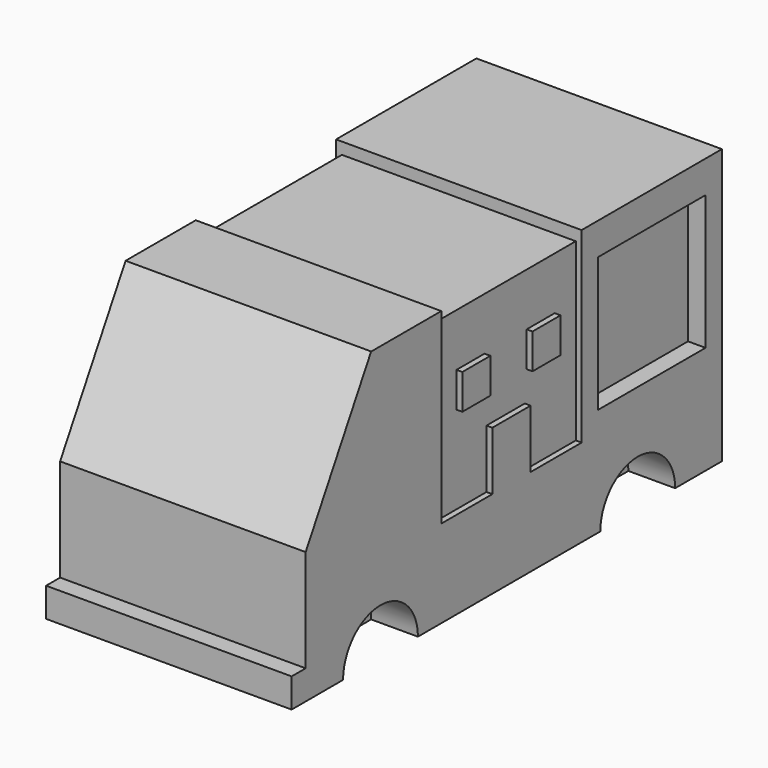
from build123d import *

# Parameters (mm, degrees)
F0_W      = 30
F0_H      = 45
F1_DEPTH  = 20
F2_W      = 6
F2_H      = 6
F3_DEPTH  = 1
F5_DEPTH  = 1
F6_W      = 1
F6_H      = 30
F7_DEPTH  = 30
F8_W      = 23
F8_H      = 23
F9_DEPTH  = 3
F10_W     = 23
F10_H     = 23
F11_DEPTH = 3
F12_W     = 42
F12_H     = 30
F13_DEPTH = 2
F14_R     = 8
F15_DEPTH = 8
F17_DEPTH = 15
F18_W     = 42
F18_H     = 22.5
F19_DEPTH = 14
F21_R     = 8
F22_DEPTH = 8
F23_DEPTH = 42
F24_DEPTH = 1
F25_R     = 8
F26_DEPTH = 8
F27_R     = 8
F28_DEPTH = 8
F29_W     = 6
F29_H     = 6
F30_DEPTH = 1
F31_W     = 42
F31_H     = 5
F32_DEPTH = 3


with BuildPart() as f1:
    # F0 (on Right) → F1 (new body, symmetric)
    with BuildSketch(Plane.YZ):
        Rectangle(F0_W, F0_H)
    extrude(amount=F1_DEPTH, both=True)

    # F2 (on face) → F3 (join, symmetric)
    with BuildSketch(Plane(origin=(-20, 0, 0), x_dir=(0, -1, 0), z_dir=(-1, 0, 0))):
        Polygon((-15, -7.5), (-15, -22.5), (15, -22.5), (15, -7.5), (4.0889219381, -7.5), (4.0889219381, 2.5), (-4.0889219381, 2.5), (-4.0889219381, -7.5), align=None)
        with Locations((-7.5, 10.5)):
            Rectangle(F2_W, F2_H)
        with Locations((7.5, 10.5)):
            Rectangle(F2_W, F2_H)
    extrude(amount=F3_DEPTH, both=True)

    # F4 (on face) → F5 (join, symmetric)
    with BuildSketch(Plane.YZ.offset(20)):
        Polygon((-4.0889219381, -7.5), (-15, -7.5), (-15, -22.5), (15, -22.5), (15, -7.5), (4.0889219381, -7.5), (4.0889219381, 2.5), (-4.0889219381, 2.5), align=None)
    extrude(amount=F5_DEPTH, both=True)

    # F6 (on face) → F7 (join)
    with BuildSketch(Plane(origin=(0, 15, 0), x_dir=(-1, 0, 0), z_dir=(0, 1, 0))):
        with Locations((20.5, 7.5)):
            Rectangle(F6_W, F6_H)
        Polygon((-21, -22.5), (21, -22.5), (21, -7.5), (20, -7.5), (20, 22.5), (-20, 22.5), (-20, -7.5), (-21, -7.5), align=None)
        with Locations((-20.5, 7.5)):
            Rectangle(F6_W, F6_H)
    extrude(amount=F7_DEPTH)

    # F8 (on face) → F9 (cut)
    with BuildSketch(Plane(origin=(-21, 0, 0), x_dir=(0, -1, 0), z_dir=(-1, 0, 0))):
        with Locations((-30, 7.5)):
            Rectangle(F8_W, F8_H)
    extrude(amount=-F9_DEPTH, mode=Mode.SUBTRACT)

    # F10 (on face) → F11 (cut)
    with BuildSketch(Plane.YZ.offset(21)):
        with Locations((30, 7.5)):
            Rectangle(F10_W, F10_H)
    extrude(amount=-F11_DEPTH, mode=Mode.SUBTRACT)

    # F12 (on face) → F13 (join)
    with BuildSketch(Plane.XY.offset(22.5)):
        with Locations((0, 30)):
            Rectangle(F12_W, F12_H)
    extrude(amount=F13_DEPTH)

    # F14 (on face) → F15 (cut)
    with BuildSketch(Plane(origin=(-21, 0, 0), x_dir=(0, -1, 0), z_dir=(-1, 0, 0))):
        with Locations((-27, -22.5)):
            Circle(F14_R)
    extrude(amount=-F15_DEPTH, mode=Mode.SUBTRACT)

    # F16 (on face) → F17 (join)
    with BuildSketch(Plane.XZ.offset(15)):
        Polygon((-21, 24.5194389681), (-21, -22.5), (21, -22.5), (21, 24.5022866875), align=None)
    extrude(amount=F17_DEPTH)

    # F18 (on face) → F19 (join)
    with BuildSketch(Plane.XZ.offset(30)):
        with Locations((0, -11.25)):
            Rectangle(F18_W, F18_H)
    extrude(amount=F19_DEPTH)

    # F21 (on face) → F22 (cut)
    with BuildSketch(Plane.YZ.offset(21)):
        with Locations((27, -22.5)):
            Circle(F21_R)
    extrude(amount=-F22_DEPTH, mode=Mode.SUBTRACT)

    # F20 (on face) → F23 (join)
    with BuildSketch(Plane(origin=(-21, 0, 0), x_dir=(0, -1, 0), z_dir=(-1, 0, 0))):
        Polygon((44, 0), (30, 24.5194389681), (30, 0), align=None)
    extrude(amount=-F23_DEPTH)

    # F2 (on face) → F24 (join)
    with BuildSketch(Plane(origin=(-20, 0, 0), x_dir=(0, -1, 0), z_dir=(-1, 0, 0))):
        Polygon((-15, -7.5), (-15, -22.5), (15, -22.5), (15, -7.5), (4.0889219381, -7.5), (4.0889219381, 2.5), (-4.0889219381, 2.5), (-4.0889219381, -7.5), align=None)
        with Locations((-7.5, 10.5)):
            Rectangle(F2_W, F2_H)
        with Locations((7.5, 10.5)):
            Rectangle(F2_W, F2_H)
    extrude(amount=F24_DEPTH)

    # F25 (on face) → F26 (cut)
    with BuildSketch(Plane(origin=(-21, 0, 0), x_dir=(0, -1, 0), z_dir=(-1, 0, 0))):
        with Locations((26, -22.5)):
            Circle(F25_R)
    extrude(amount=-F26_DEPTH, mode=Mode.SUBTRACT)

    # F27 (on face) → F28 (cut)
    with BuildSketch(Plane.YZ.offset(21)):
        with Locations((-28, -22.5)):
            Circle(F27_R)
    extrude(amount=-F28_DEPTH, mode=Mode.SUBTRACT)

    # F29 (on face) → F30 (join, symmetric)
    with BuildSketch(Plane.YZ.offset(20)):
        with Locations((-7.5, 10.5)):
            Rectangle(F29_W, F29_H)
        with Locations((7.5, 10.5)):
            Rectangle(F29_W, F29_H)
    extrude(amount=F30_DEPTH, both=True)

    # F31 (on face) → F32 (join)
    with BuildSketch(Plane.XZ.offset(44)):
        with Locations((0, -20)):
            Rectangle(F31_W, F31_H)
    extrude(amount=F32_DEPTH)


solid = f1.part
